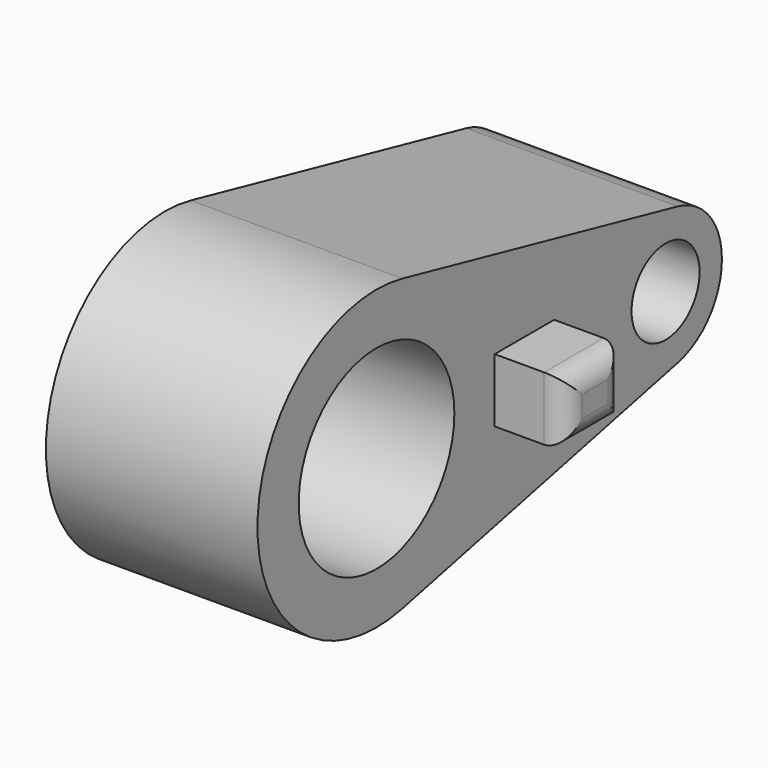
from build123d import *

# Parameters (mm, degrees)
F1_DEPTH = 76.2
F2_R     = 35.044317
F3_DEPTH = 50.8
F4_R     = 15.315164
F5_DEPTH = 50.8
F6_W     = 26.776026
F6_H     = 22.917912
F7_DEPTH = 25.4
F8_R     = 7.62


with BuildPart() as f1:
    # F0 (on Right) → F1 (new body)
    with BuildSketch(Plane.YZ):
        with BuildLine():
            ThreePointArc((-54.972521, -52.316467), (-24.786857, -33.537675), (-12.995266, 0))
            ThreePointArc((-12.995266, 0), (-24.786857, 33.537675), (-54.972521, 52.316467))
            ThreePointArc((-54.972521, 52.316467), (-120.174799, 0), (-54.972521, -52.316467))
        make_face()
        with BuildLine():
            ThreePointArc((-54.972521, 52.316467), (-24.786857, 33.537675), (-12.995266, 0))
            ThreePointArc((-12.995266, 0), (-24.786857, -33.537675), (-54.972521, -52.316467))
            Line((-54.972521, -52.316467), (69.009942, -24.796493))
            ThreePointArc((69.009942, -24.796493), (38.105947, 0), (69.009942, 24.796493))
            Line((69.009942, 24.796493), (-54.972521, 52.316467))
        make_face()
        with BuildLine():
            ThreePointArc((88.905947, 0), (83.317074, 15.895888), (69.009942, 24.796493))
            ThreePointArc((69.009942, 24.796493), (38.105947, 0), (69.009942, -24.796493))
            ThreePointArc((69.009942, -24.796493), (83.317074, -15.895888), (88.905947, 0))
        make_face()
    extrude(amount=F1_DEPTH)

    # F2 (on face) → F3 (cut)
    with BuildSketch(Plane.YZ.offset(76.2)):
        with Locations((-66.585032, 0)):
            Circle(F2_R)
    extrude(amount=-F3_DEPTH, mode=Mode.SUBTRACT)

    # F4 (on face) → F5 (cut)
    with BuildSketch(Plane.YZ.offset(76.2)):
        with Locations((63.536301, 0)):
            Circle(F4_R)
    extrude(amount=-F5_DEPTH, mode=Mode.SUBTRACT)

    # F6 (on face) → F7 (join)
    with BuildSketch(Plane.YZ.offset(76.2)):
        Rectangle(F6_W, F6_H)
    extrude(amount=F7_DEPTH)

    # F8
    f8_edges = [f1.edges().sort_by_distance(p)[0] for p in [
        (101.6, -13.388013, 0),
        (101.6, 0, -11.458956),
        (101.6, 13.388013, 0),
        (101.6, 0, 11.458956),
    ]]
    fillet(f8_edges, radius=F8_R)


solid = f1.part
